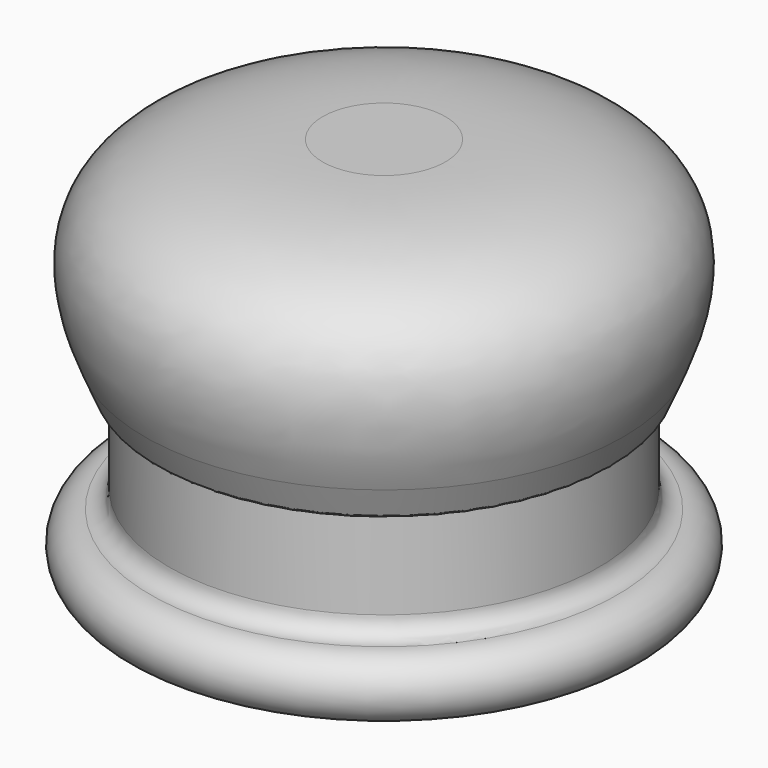
from build123d import *

# Parameters (mm, degrees)
F0_W = 10
F0_H = 10


with BuildPart() as f1:
    # F0 (on Front) → F1 (revolve)
    with BuildSketch(Plane.XZ):
        with BuildLine():
            Line((-36, 28.435962), (-36, 50))
            Line((-36, 50), (0, 50))
            Line((0, 50), (0, 53))
            Line((0, 53), (-10, 53))
            Line((-10, 53), (-39, 53))
            Line((-39, 53), (-39, 33))
            Line((-39, 33), (-36.959573, 28.239003))
            ThreePointArc((-36.959573, 28.239003), (-36.399467, 27.946173), (-36, 28.435962))
        make_face()
        with BuildLine():
            Line((-39, 53), (-10, 53))
            Line((-10, 53), (-10, 63))
            add(Edge.make_bspline(
                [(-39, 33), (-44.908789, 46.787175), (-45, 63), (-10, 63)],
                knots=[0, 0, 0, 0, 41.725292, 41.725292, 41.725292, 41.725292], degree=3))
            Line((-39, 33), (-39, 53))
        make_face()
        with Locations((-5, 58)):
            Rectangle(F0_W, F0_H)
    revolve(axis=Axis((0, 0, 31.5), (0, 0, 1)))


with BuildPart() as f2:
    # F0 (on Front) → F2 (revolve)
    with BuildSketch(Plane.XZ):
        with BuildLine():
            Line((-32, 45), (-35, 45))
            Line((-35, 45), (-35, 13))
            ThreePointArc((-35, 13), (-35.87868, 10.87868), (-38, 10))
            ThreePointArc((-38, 10), (-43, 5), (-38, 0))
            Line((-38, 0), (0, 0))
            Line((0, 0), (0, 3))
            Line((0, 3), (-32, 3))
            Line((-32, 3), (-32, 45))
        make_face()
    revolve(axis=Axis((0, 0, 31.5), (0, 0, 1)))


solid = Compound([f1.part, f2.part])
